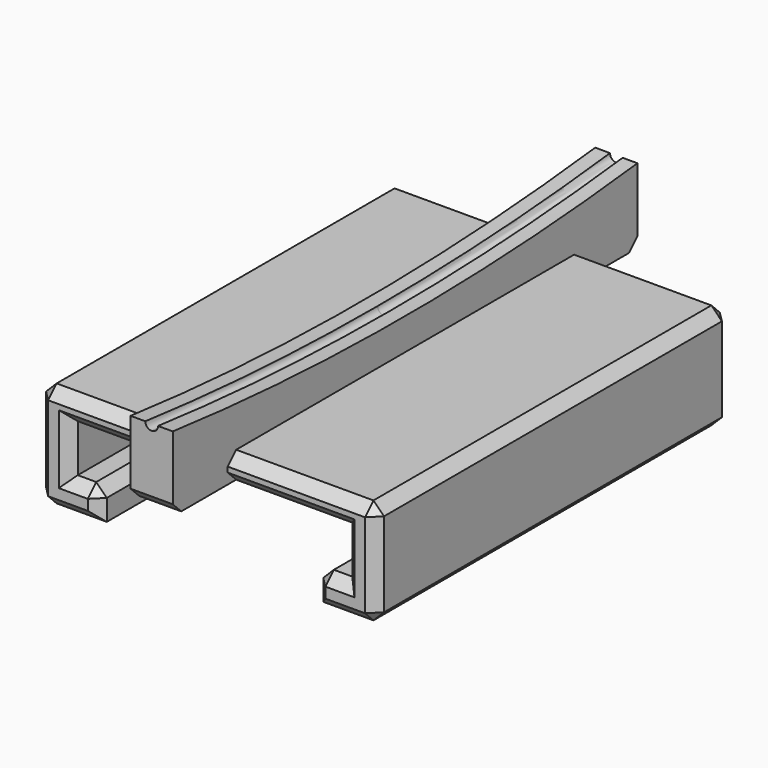
from build123d import *

# Parameters (mm, degrees)
BOX001_W        = 20.5
BOX001_H        = 35
BOX001_DEPTH    = 3
BOX002_W        = 26
BOX002_H        = 37
BOX002_DEPTH    = 4.5
BOX_W           = 32
BOX_H           = 42
BOX_DEPTH       = 10
CHAMFER001_SIZE = 1
CYLINDER_R      = 241
CYLINDER_DEPTH  = 10
TORUS_R         = 0.6
BOX003_W        = 4
BOX003_H        = 55
BOX003_DEPTH    = 20
CHAMFER_SIZE    = 1


with BuildPart() as clamp_mount_hole:
    # Box001 → Box001 (new body)
    with BuildSketch(Plane(origin=(4.75, 0, 0), x_dir=(1, 0, 0), z_dir=(0, 0, 1))):
        with Locations((10.25, 17.5)):
            Rectangle(BOX001_W, BOX001_H)
    extrude(amount=BOX001_DEPTH)


with BuildPart() as clamp_mount_shape:
    # Box002 → Box002 (new body)
    with BuildSketch(Plane(origin=(2, 0, 3), x_dir=(1, 0, 0), z_dir=(0, 0, 1))):
        with Locations((13, 18.5)):
            Rectangle(BOX002_W, BOX002_H)
    extrude(amount=BOX002_DEPTH)

    # Fusion: union clamp_mount_hole
    add(clamp_mount_hole.part)


with BuildPart() as obj1:
    # Box → Box (new body)
    with BuildSketch(Plane(origin=(-1, 0, 0), x_dir=(1, 0, 0), z_dir=(0, 0, 1))):
        with Locations((16, 21)):
            Rectangle(BOX_W, BOX_H)
    extrude(amount=BOX_DEPTH)

    # Cut: cut clamp_mount_shape
    add(clamp_mount_shape.part, mode=Mode.SUBTRACT)

    # Chamfer001
    chamfer001_edges = [obj1.edges().sort_by_distance(p)[0] for p in [
        (-1, 0, 5),
        (-1, 21, 10),
        (-1, 42, 5),
        (-1, 21, 0),
        (1.875, 0, 0),
        (4.75, 0, 1.5),
        (3.375, 0, 3),
        (2, 0, 5.25),
        (15, 0, 7.5),
        (28, 0, 5.25),
        (26.625, 0, 3),
        (25.25, 0, 1.5),
        (28.125, 0, 0),
        (31, 0, 5),
        (15, 0, 10),
        (15, 42, 10),
        (31, 21, 10),
        (15, 42, 0),
        (31, 42, 5),
        (31, 21, 0),
        (4.75, 17.5, 3),
        (25.25, 17.5, 3),
        (15, 35, 3),
    ]]
    chamfer(chamfer001_edges, length=CHAMFER001_SIZE)


with BuildPart() as cylinder:
    # Cylinder → Cylinder (new body)
    with BuildSketch(Plane(origin=(10, 0, 0), x_dir=(0, 0, -1), z_dir=(1, 0, 0))):
        Circle(CYLINDER_R)
    extrude(amount=CYLINDER_DEPTH)


with BuildPart() as cut_disk:
    # Torus → Torus (revolve)
    with BuildSketch(Plane(origin=(15, 0, 0), x_dir=(0, 0, -1), z_dir=(0, -1, 0))):
        with Locations((241, 0)):
            Circle(TORUS_R)
    revolve(axis=Axis((15, 0, 0), (1, 0, 0)))

    # Fusion001: union Cylinder
    add(cylinder.part)


with BuildPart() as cut_disk_1:
    # Fusion001 placement: moved
    add(cut_disk.part.moved(Location((0, 21, 254))))


with BuildPart() as fret_wire_clamp:
    # Box003 → Box003 (new body)
    with BuildSketch(Plane(origin=(13, -6.5, 7.5), x_dir=(1, 0, 0), z_dir=(0, 0, 1))):
        with Locations((2, 27.5)):
            Rectangle(BOX003_W, BOX003_H)
    extrude(amount=BOX003_DEPTH)

    # Cut001: cut cut_disk
    add(cut_disk_1.part, mode=Mode.SUBTRACT)

    # Chamfer
    chamfer_edges = [fret_wire_clamp.edges().sort_by_distance(p)[0] for p in [
        (15, -6.5, 7.5),
        (15, 48.5, 7.5),
    ]]
    chamfer(chamfer_edges, length=CHAMFER_SIZE)

    # Fusion002: union obj1
    add(obj1.part)


solid = fret_wire_clamp.part
